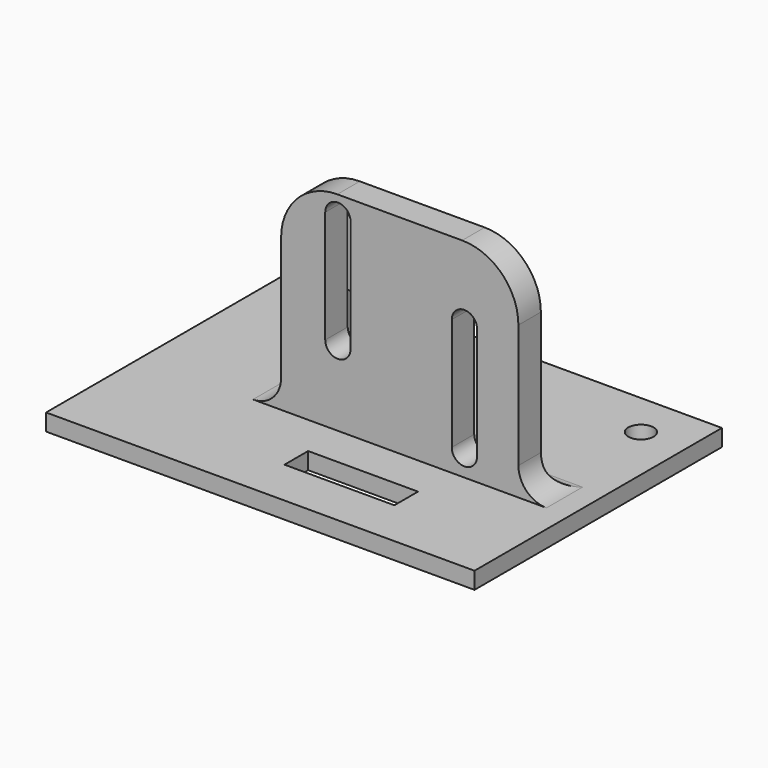
from build123d import *

# Parameters (mm, degrees)
SKETCH_W        = 76.2
SKETCH_H        = 34
PAD_DEPTH       = 3
SKETCH001_R     = 2.25
POCKET_DEPTH    = 3.001
SKETCH002_W     = 76.2
SKETCH002_H     = 5
PAD001_DEPTH    = 37
POCKET001_DEPTH = 34.001
SKETCH004_W     = 25
SKETCH004_H     = 37
SKETCH004_W_2   = 9
POCKET002_DEPTH = 34.001
FILLET_R        = 10
FILLET001_R     = 5
FILLET002_R     = 3
PAD002_DEPTH    = 21
SKETCH005_W     = 19.546381
SKETCH005_H     = 5.254696
POCKET003_DEPTH = 3.001


with BuildPart() as part:
    # Sketch → Pad (new body)
    with BuildSketch(Plane.XY):
        Rectangle(SKETCH_W, SKETCH_H)
    extrude(amount=PAD_DEPTH)

    # Sketch001 (on Face6 of Pad) → Pocket (cut, through all)
    with BuildSketch(Plane.XY.offset(3)):
        with Locations((-30.1, 9)):
            Circle(SKETCH001_R)
        with Locations((30.1, 9)):
            Circle(SKETCH001_R)
    extrude(amount=-POCKET_DEPTH, mode=Mode.SUBTRACT)

    # Sketch002 (on Face5 of Pocket) → Pad001 (join)
    with BuildSketch(Plane.XY.offset(3)):
        with Locations((0, -14.5)):
            Rectangle(SKETCH002_W, SKETCH002_H)
    extrude(amount=PAD001_DEPTH)

    # Sketch003 (on Face12 of Pad001) → Pocket001 (cut, through all)
    with BuildSketch(Plane.XZ.offset(17)):
        with BuildLine():
            ThreePointArc((-5.25, 16.5), (-3, 14.25), (-0.75, 16.5))
            Line((-0.75, 16.5), (-0.75, 36.5))
            ThreePointArc((-0.75, 36.5), (-3, 38.75), (-5.25, 36.5))
            Line((-5.25, 16.5), (-5.25, 36.5))
        make_face()
        with BuildLine():
            ThreePointArc((17.25, 7), (19.5, 4.75), (21.75, 7))
            Line((21.75, 7), (21.75, 27))
            ThreePointArc((21.75, 27), (19.5, 29.25), (17.25, 27))
            Line((17.25, 7), (17.25, 27))
        make_face()
    extrude(amount=-POCKET001_DEPTH, mode=Mode.SUBTRACT)

    # Sketch004 (on Face12 of Pocket001) → Pocket002 (cut, through all)
    with BuildSketch(Plane.XZ.offset(17)):
        with Locations((-25.6, 21.5)):
            Rectangle(SKETCH004_W, SKETCH004_H)
        with Locations((33.6, 21.5)):
            Rectangle(SKETCH004_W_2, SKETCH004_H)
    extrude(amount=-POCKET002_DEPTH, mode=Mode.SUBTRACT)

    # Fillet
    fillet_edges = [part.edges().sort_by_distance(p)[0] for p in [
        (-13.1, -14.5, 40),
        (29.1, -14.5, 40),
    ]]
    fillet(fillet_edges, radius=FILLET_R)

    # Fillet001
    fillet001_edges = [part.edges().sort_by_distance(p)[0] for p in [
        (-13.1, -14.5, 3),
        (29.1, -14.5, 3),
    ]]
    fillet(fillet001_edges, radius=FILLET001_R)

    # Fillet002
    fillet002_edges = [part.edges().sort_by_distance(p)[0] for p in [
        (8, -12, 3),
    ]]
    fillet(fillet002_edges, radius=FILLET002_R)

    # Fillet002 Face31 → Pad002 (add)
    with BuildSketch(Plane(origin=(0, -17, 1.5), x_dir=(-1, 0, 0), z_dir=(0, -1, 0))):
        Polygon((-38.1, -1.5), (-34.1, -1.5), (-29.1, -1.5), (13.1, -1.5), (18.1, -1.5), (38.1, -1.5), (38.1, 1.5), (-38.1, 1.5), align=None)
    extrude(amount=PAD002_DEPTH)

    # Sketch005 (on Face29 of Pad002) → Pocket003 (cut, through all)
    with BuildSketch(Plane.XY.offset(3)):
        with Locations((7.336419, -26.952593)):
            Rectangle(SKETCH005_W, SKETCH005_H)
    extrude(amount=-POCKET003_DEPTH, mode=Mode.SUBTRACT)


solid = part.part
